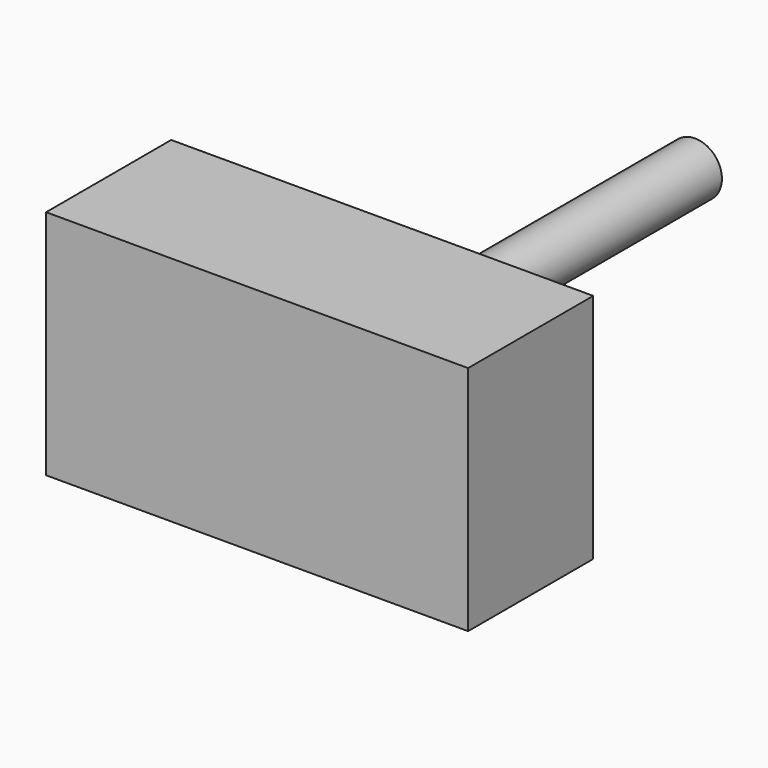
from build123d import *

# Parameters (mm, degrees)
F0_R     = 17.4638157323
F1_DEPTH = 254
F3_DEPTH = 76.2
F4_DEPTH = 25.4


with BuildPart() as f1:
    # F0 (on Front) → F1 (new body)
    with BuildSketch(Plane.XZ):
        Circle(F0_R)
    extrude(amount=F1_DEPTH)

    # F2 (on face) → F3 (join)
    with BuildSketch(Plane.XZ.offset(254)):
        with BuildLine():
            Line((-17.4638157323, 0), (0, 0))
            Line((0, 0), (0, 17.4638157323))
            ThreePointArc((0, 17.4638157323), (-12.3487825297, 12.3487825297), (-17.4638157323, 0))
        make_face()
        with BuildLine():
            Line((0, -17.4638157323), (0, 0))
            Line((0, 0), (-17.4638157323, 0))
            ThreePointArc((-17.4638157323, 0), (-12.3487825297, -12.3487825297), (0, -17.4638157323))
        make_face()
        with BuildLine():
            ThreePointArc((0, -17.4638157323), (-12.3487825297, -12.3487825297), (-17.4638157323, 0))
            Line((-17.4638157323, 0), (-137.0784789324, 0))
            Line((-137.0784789324, 0), (-137.0784789324, -75.2277523279))
            Line((-137.0784789324, -75.2277523279), (0, -75.2277523279))
            Line((0, -75.2277523279), (0, -17.4638157323))
        make_face()
        with BuildLine():
            Line((0, 17.4638157323), (0, 0))
            Line((0, 0), (17.4638157323, 0))
            ThreePointArc((17.4638157323, 0), (12.3487825297, 12.3487825297), (0, 17.4638157323))
        make_face()
        with BuildLine():
            Line((0, 75.2277523279), (0, 17.4638157323))
            ThreePointArc((0, 17.4638157323), (12.3487825297, 12.3487825297), (17.4638157323, 0))
            Line((17.4638157323, 0), (137.0784789324, 0))
            Line((137.0784789324, 0), (137.0784789324, 75.2277523279))
            Line((137.0784789324, 75.2277523279), (0, 75.2277523279))
        make_face()
        with BuildLine():
            Line((137.0784789324, 0), (17.4638157323, 0))
            ThreePointArc((17.4638157323, 0), (12.3487825297, -12.3487825297), (0, -17.4638157323))
            Line((0, -17.4638157323), (0, -75.2277523279))
            Line((0, -75.2277523279), (137.0784789324, -75.2277523279))
            Line((137.0784789324, -75.2277523279), (137.0784789324, 0))
        make_face()
        with BuildLine():
            Line((17.4638157323, 0), (0, 0))
            Line((0, 0), (0, -17.4638157323))
            ThreePointArc((0, -17.4638157323), (12.3487825297, -12.3487825297), (17.4638157323, 0))
        make_face()
        with BuildLine():
            Line((-137.0784789324, 0), (-17.4638157323, 0))
            ThreePointArc((-17.4638157323, 0), (-12.3487825297, 12.3487825297), (0, 17.4638157323))
            Line((0, 17.4638157323), (0, 75.2277523279))
            Line((0, 75.2277523279), (-137.0784789324, 75.2277523279))
            Line((-137.0784789324, 75.2277523279), (-137.0784789324, 0))
        make_face()
    extrude(amount=F3_DEPTH)

    # F4 (add): a face of the model
    f4_faces = [f1.faces().sort_by_distance(p)[0] for p in [
        (0, -330.2, 0),
    ]]
    extrude(f4_faces, amount=F4_DEPTH)


solid = f1.part
